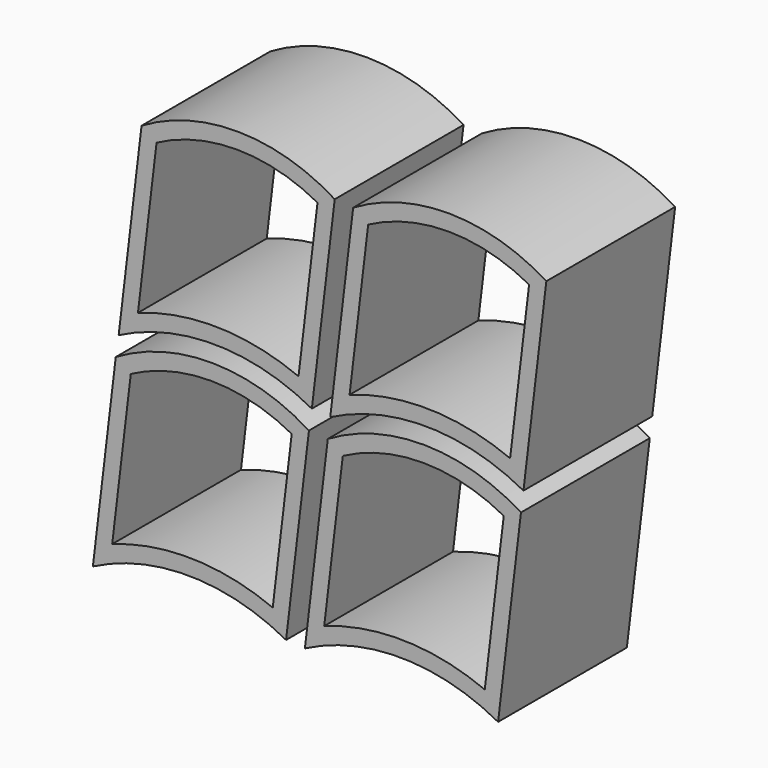
from build123d import *

# Parameters (mm, degrees)
F1_DEPTH = 50


with BuildPart() as f1:
    # F0 (on Front) → F1 (new body)
    with BuildSketch(Plane.XZ):
        with BuildLine():
            Line((-105.538861, 59.577731), (-112.644774, 0))
            ThreePointArc((-112.644774, 0), (-82.571272, 7.161082), (-52.644774, -0.591416))
            Line((-52.644774, -0.591416), (-45.538861, 58.986314))
            ThreePointArc((-45.538861, 58.986314), (-75.455922, 67.696364), (-105.538861, 59.577731))
        make_face()
        with BuildLine():
            ThreePointArc((-100.87391, 56.471474), (-75.863951, 62.698921), (-50.892417, 56.319138))
            Line((-50.892417, 56.319138), (-56.785128, 6.913192))
            ThreePointArc((-56.785128, 6.913192), (-81.608829, 12.1458), (-106.64752, 8.064099))
            Line((-106.64752, 8.064099), (-100.87391, 56.471474))
        make_face(mode=Mode.SUBTRACT)
        with BuildLine():
            Line((-39.818244, 58.537228), (-46.924156, -1.040502))
            ThreePointArc((-46.924156, -1.040502), (-16.850655, 6.120579), (13.075844, -1.631919))
            Line((13.075844, -1.631919), (20.181756, 57.945812))
            ThreePointArc((20.181756, 57.945812), (-9.735304, 66.655862), (-39.818244, 58.537228))
        make_face()
        with BuildLine():
            ThreePointArc((-35.153293, 55.430973), (-10.143334, 61.65842), (14.8282, 55.278637))
            Line((14.8282, 55.278637), (8.93549, 5.87269))
            ThreePointArc((8.93549, 5.87269), (-15.888211, 11.105298), (-40.926902, 7.023597))
            Line((-40.926902, 7.023597), (-35.153293, 55.430973))
        make_face(mode=Mode.SUBTRACT)
        with BuildLine():
            Line((-47.694088, -7.252912), (-54.8, -66.830643))
            ThreePointArc((-54.8, -66.830643), (-24.726499, -59.669561), (5.2, -67.422059))
            Line((5.2, -67.422059), (12.305912, -7.844328))
            ThreePointArc((12.305912, -7.844328), (-17.611148, 0.865722), (-47.694088, -7.252912))
        make_face()
        with BuildLine():
            ThreePointArc((-43.029136, -10.359167), (-18.019178, -4.131721), (6.952356, -10.511503))
            Line((6.952356, -10.511503), (1.059646, -59.91745))
            ThreePointArc((1.059646, -59.91745), (-23.764055, -54.684842), (-48.802746, -58.766543))
            Line((-48.802746, -58.766543), (-43.029136, -10.359167))
        make_face(mode=Mode.SUBTRACT)
        with BuildLine():
            Line((-113.544506, -6.264287), (-120.650418, -65.842018))
            ThreePointArc((-120.650418, -65.842018), (-90.576917, -58.680936), (-60.650418, -66.433434))
            Line((-60.650418, -66.433434), (-53.544506, -6.855703))
            ThreePointArc((-53.544506, -6.855703), (-83.461566, 1.854347), (-113.544506, -6.264287))
        make_face()
        with BuildLine():
            ThreePointArc((-108.879554, -9.370542), (-83.869596, -3.143096), (-58.898062, -9.522878))
            Line((-58.898062, -9.522878), (-64.790772, -58.928825))
            ThreePointArc((-64.790772, -58.928825), (-89.614473, -53.696217), (-114.653164, -57.777918))
            Line((-114.653164, -57.777918), (-108.879554, -9.370542))
        make_face(mode=Mode.SUBTRACT)
    extrude(amount=F1_DEPTH)


solid = f1.part
